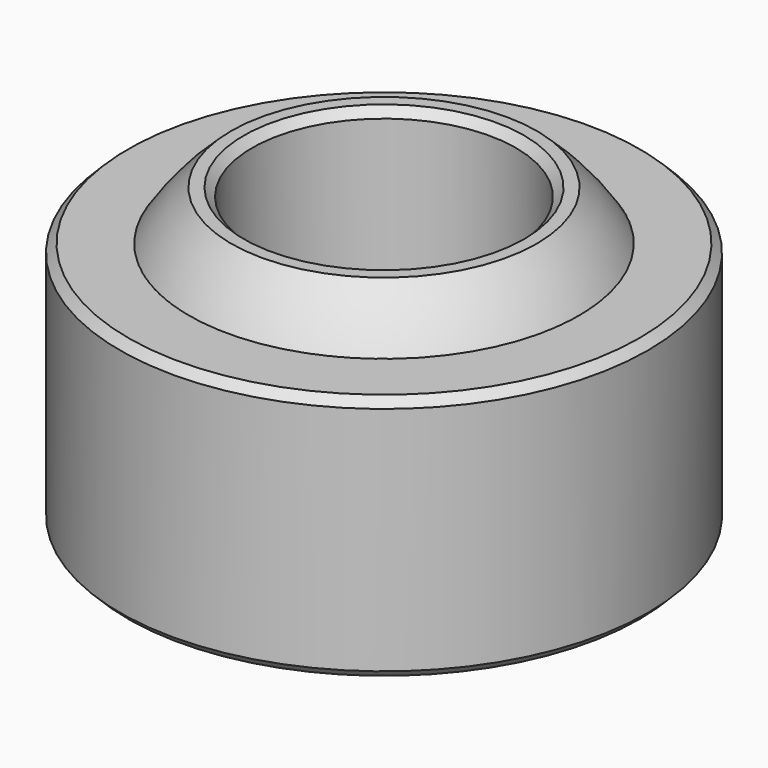
from build123d import *

# Parameters (mm, degrees)
F0_R          = 16
F1_DEPTH      = 7.5
F5_W          = 45.1367325801
F5_H          = 20.4906001854
F5_W_2        = 40.0436969702
F5_H_2        = 11.4889506178
F6_DEPTH      = 16.001
F6_DEPTH_BACK = 16.001
F7_R          = 8
F8_DEPTH      = 21.001
F9_SIZE       = 0.5
F9_2_SIZE     = 0.5


with BuildPart() as f1:
    # F0 (on Top) → F1 (new body, symmetric)
    with BuildSketch(Plane.XY):
        Circle(F0_R)
    extrude(amount=F1_DEPTH, both=True)

    # F2 (on Front) → F3 (revolve, cut)
    with BuildSketch(Plane.XZ):
        with BuildLine():
            Line((0, -14), (0, 14))
            ThreePointArc((0, 14), (-14, 0), (0, -14))
        make_face()
    revolve(axis=Axis((0, 0, -0.4253866008), (0, 0, 1)), mode=Mode.SUBTRACT)

    # F9#2
    f9_2_edges = [f1.edges().sort_by_distance(p)[0] for p in [
        (-16, 0, -7.5),
        (16, 0, 0),
        (-16, 0, 7.5),
    ]]
    chamfer(f9_2_edges, length=F9_2_SIZE)


with BuildPart() as f4:
    # F2 (on Front) → F4 (revolve)
    with BuildSketch(Plane.XZ):
        with BuildLine():
            Line((0, -14), (0, 14))
            ThreePointArc((0, 14), (-14, 0), (0, -14))
        make_face()
    revolve(axis=Axis((0, 0, -0.4253866008), (0, 0, 1)))

    # F5 (on Front) → F6 (cut, two sides)
    with BuildSketch(Plane.XZ) as f6_sk:
        with Locations((0, 20.7453000927)):
            Rectangle(F5_W, F5_H)
        with Locations((0, -16.2444753089)):
            Rectangle(F5_W_2, F5_H_2)
    extrude(amount=-F6_DEPTH, mode=Mode.SUBTRACT)
    extrude(f6_sk.sketch, amount=F6_DEPTH_BACK, mode=Mode.SUBTRACT)

    # F7 (on face) → F8 (cut, through all)
    with BuildSketch(Plane.XY.offset(10.5)):
        Circle(F7_R)
    extrude(amount=-F8_DEPTH, mode=Mode.SUBTRACT)

    # F9
    f9_edges = [f4.edges().sort_by_distance(p)[0] for p in [
        (-8, 0, 10.5),
        (8, 0, 0),
        (-8, 0, -10.5),
    ]]
    chamfer(f9_edges, length=F9_SIZE)


solid = Compound([f1.part, f4.part])
